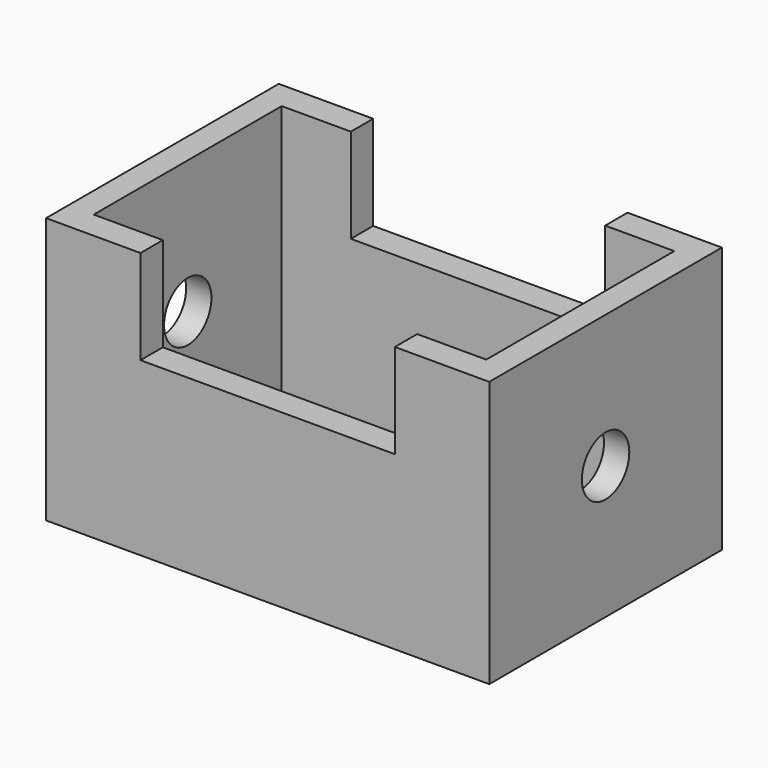
from build123d import *

# Parameters (mm, degrees)
F0_W     = 104.681172
F0_H     = 95.793142
F0_R     = 10.65923
F1_DEPTH = 79.756
F2_W     = 141.289428
F2_H     = 84.574654
F3_DEPTH = 119.126
F5_DEPTH = 183.642


with BuildPart() as f1:
    # F0 (on Right) → F1 (new body, symmetric)
    with BuildSketch(Plane.YZ):
        Rectangle(F0_W, F0_H)
        Circle(F0_R, mode=Mode.SUBTRACT)
    extrude(amount=F1_DEPTH, both=True)

    # F2 (on face) → F3 (cut)
    with BuildSketch(Plane.XY.offset(47.896571)):
        Rectangle(F2_W, F2_H)
    extrude(amount=-F3_DEPTH, mode=Mode.SUBTRACT)

    # F4 (on face) → F5 (cut)
    with BuildSketch(Plane.XZ.offset(52.340586)):
        Polygon((45.769807, 47.896571), (0, 47.896571), (-45.769807, 47.896571), (-45.769807, 13.929941), (0, 13.929941), (45.769807, 13.929941), align=None)
    extrude(amount=-F5_DEPTH, mode=Mode.SUBTRACT)


solid = f1.part
